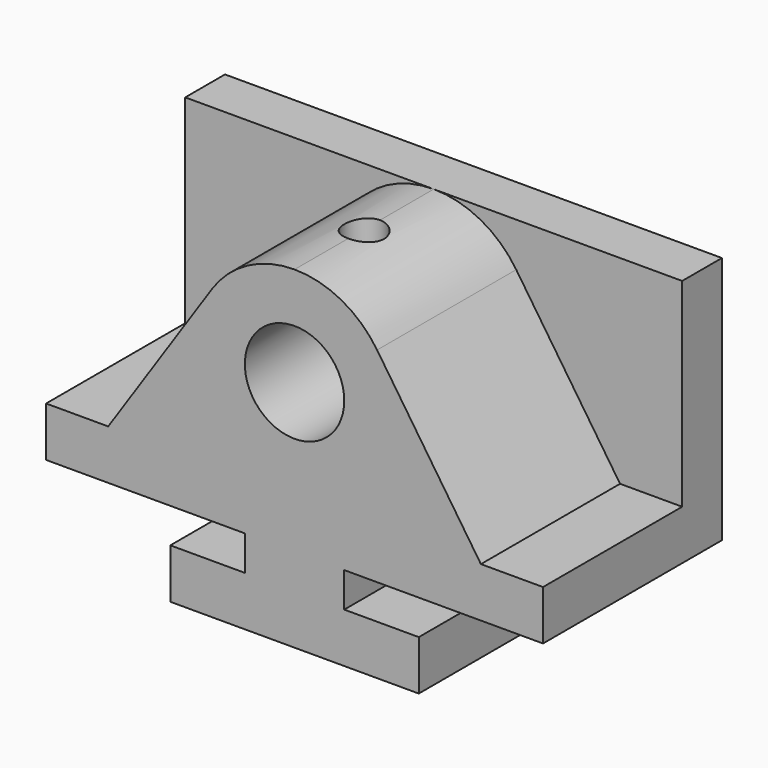
from build123d import *

# Parameters (mm, degrees)
F0_W     = 127
F0_H     = 85.09
F1_DEPTH = 57.15
F4_DEPTH = 57.151
F5_DEPTH = 44.45
F2_R     = 12.7
F6_DEPTH = 57.151
F3_R     = 5.08
F7_DEPTH = 25.4


with BuildPart() as f1:
    # F0 (on Front) → F1 (new body)
    with BuildSketch(Plane.XZ):
        with Locations((-21.680927, 48.655549)):
            Rectangle(F0_W, F0_H)
    extrude(amount=-F1_DEPTH)

    # F2 (on face) → F4 (cut, through all)
    with BuildSketch(Plane.XZ):
        Polygon((-85.180927, 6.110549), (-53.430927, 6.110549), (-53.430927, 18.810549), (-34.380927, 18.810549), (-34.380927, 27.700549), (-85.180927, 27.700549), align=None)
        Polygon((10.069073, 18.810549), (10.069073, 6.110549), (41.819073, 6.110549), (41.819073, 27.700549), (-8.980927, 27.700549), (-8.980927, 18.810549), align=None)
    extrude(amount=-F4_DEPTH, mode=Mode.SUBTRACT)

    # F2 (on face) → F5 (cut)
    with BuildSketch(Plane.XZ):
        with BuildLine():
            Line((-85.180927, 91.200549), (-85.180927, 40.400549))
            Line((-85.180927, 40.400549), (-69.305927, 40.400549))
            Line((-69.305927, 40.400549), (-42.774352, 79.950722))
            ThreePointArc((-42.774352, 79.950722), (-33.633868, 88.212314), (-21.680927, 91.200549))
            Line((-21.680927, 91.200549), (-85.180927, 91.200549))
        make_face()
        with BuildLine():
            Line((25.944073, 40.400549), (41.819073, 40.400549))
            Line((41.819073, 40.400549), (41.819073, 91.200549))
            Line((41.819073, 91.200549), (-21.680927, 91.200549))
            ThreePointArc((-21.680927, 91.200549), (-9.727986, 88.212314), (-0.587501, 79.950722))
            Line((-0.587501, 79.950722), (25.944073, 40.400549))
        make_face()
    extrude(amount=-F5_DEPTH, mode=Mode.SUBTRACT)

    # F2 (on face) → F6 (cut, through all)
    with BuildSketch(Plane.XZ):
        with Locations((-21.680927, 65.800549)):
            Circle(F2_R)
    extrude(amount=-F6_DEPTH, mode=Mode.SUBTRACT)

    # F3 (on face) → F7 (cut)
    with BuildSketch(Plane.XY.offset(91.200549)):
        with Locations((-21.680927, 22.225)):
            Circle(F3_R)
    extrude(amount=-F7_DEPTH, mode=Mode.SUBTRACT)


solid = f1.part
